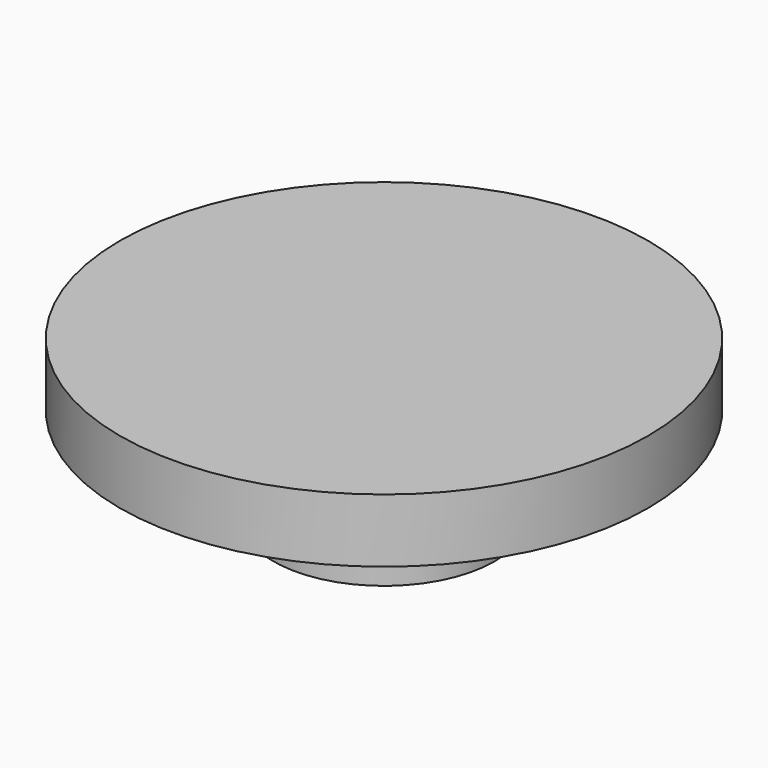
from build123d import *

# Parameters (mm, degrees)
F0_R     = 9.55
F0_R_2   = 6
F1_DEPTH = 2.3
F0_R_3   = 4
F2_DEPTH = 2.65
F3_DEPTH = 5.8


with BuildPart() as f1:
    # F0 (on Top) → F1 (new body)
    with BuildSketch(Plane.XY):
        Circle(F0_R)
        Circle(F0_R_2, mode=Mode.SUBTRACT)
    extrude(amount=-F1_DEPTH)

    # F0 (on Top) → F2 (join)
    with BuildSketch(Plane.XY):
        Circle(F0_R_2)
        Circle(F0_R_3, mode=Mode.SUBTRACT)
    extrude(amount=-F2_DEPTH)

    # F0 (on Top) → F3 (join)
    with BuildSketch(Plane.XY):
        Circle(F0_R_3)
    extrude(amount=-F3_DEPTH)


solid = f1.part
